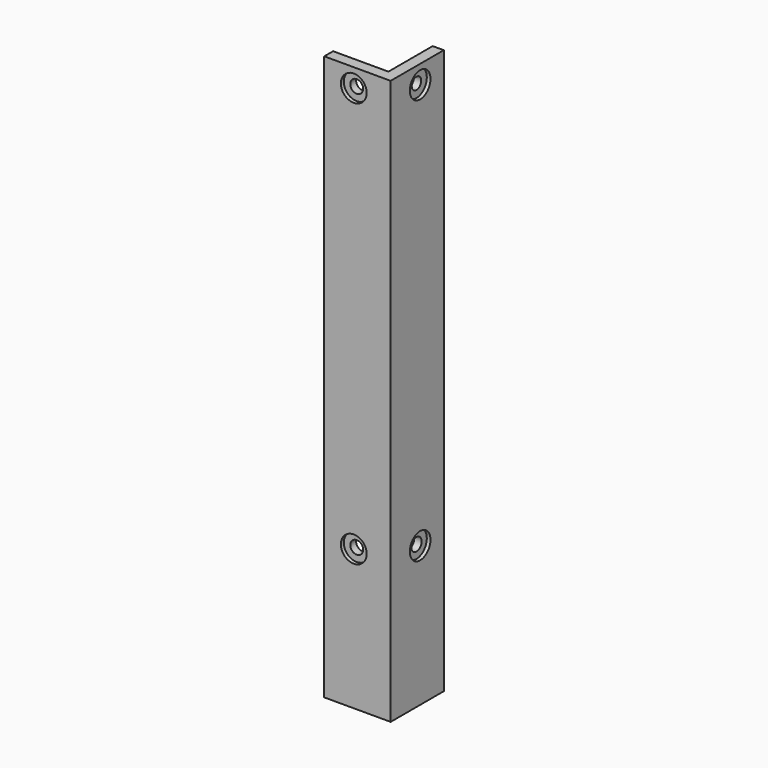
from build123d import *

# Parameters (mm, degrees)
PAD012_DEPTH            = 100
PAD015_DEPTH            = 10
SKETCH035_R             = 1.6
POCKET023_DEPTH         = 5
SKETCH036_R             = 3.5
POCKET019_DEPTH         = 1
SKETCH037_R             = 1.75
POCKET020_DEPTH         = 5
SKETCH038_R             = 3.5
POCKET021_DEPTH         = 1
PAD013_DEPTH            = 40
PAD014_DEPTH            = 3
SKETCH031_R             = 1.75
POCKET022_DEPTH         = 5
SKETCH042_R             = 3.5
POCKET026_DEPTH         = 1
SKETCH040_R             = 1.75
POCKET024_DEPTH         = 5
SKETCH041_R             = 3.5
POCKET025_DEPTH         = 1
BODY005_PLACEMENT_ANGLE = 90


with BuildPart() as part:
    # Sketch032 → Pad012 (new body)
    with BuildSketch(Plane.XY):
        Polygon((-53, -35), (-53, -53), (-35, -53), (-35, -48), (-48, -48), (-48, -35), align=None)
    extrude(amount=PAD012_DEPTH)

    # Sketch034 (on Face8 of Pad012) → Pad015 (join)
    with BuildSketch(Plane.XY.offset(100)):
        Polygon((-53, -35), (-53, -53), (-35, -53), (-35, -50), (-50, -50), (-50, -35), align=None)
    extrude(amount=PAD015_DEPTH)

    # Sketch035 (on Face14 of Pad015) → Pocket023 (cut)
    with BuildSketch(Plane.XZ.offset(53)):
        with Locations((-43, 105)):
            Circle(SKETCH035_R)
    extrude(amount=-POCKET023_DEPTH, mode=Mode.SUBTRACT)

    # Sketch036 (on Face14 of Pocket023) → Pocket019 (cut)
    with BuildSketch(Plane.XZ.offset(53)):
        with Locations((-43, 105)):
            Circle(SKETCH036_R)
    extrude(amount=-POCKET019_DEPTH, mode=Mode.SUBTRACT)

    # Sketch037 (on Face9 of Pocket019) → Pocket020 (cut)
    with BuildSketch(Plane(origin=(-53, 0, 0), x_dir=(0, -1, 0), z_dir=(-1, 0, 0))):
        with Locations((43, 105)):
            Circle(SKETCH037_R)
    extrude(amount=-POCKET020_DEPTH, mode=Mode.SUBTRACT)

    # Sketch038 (on Face9 of Pocket020) → Pocket021 (cut)
    with BuildSketch(Plane(origin=(-53, 0, 0), x_dir=(0, -1, 0), z_dir=(-1, 0, 0))):
        with Locations((43, 105)):
            Circle(SKETCH038_R)
    extrude(amount=-POCKET021_DEPTH, mode=Mode.SUBTRACT)

    # Sketch033 (on Face4 of Pocket021) → Pad013 (join)
    with BuildSketch(Plane(origin=(0, 0, 0), x_dir=(1, 0, 0), z_dir=(0, 0, -1))):
        Polygon((-35, 53), (-53, 53), (-53, 35), (-50, 35), (-50, 50), (-35, 50), align=None)
    extrude(amount=PAD013_DEPTH)

    # Sketch039 (on Face15 of Pad013) → Pad014 (join)
    with BuildSketch(Plane(origin=(0, 0, -40), x_dir=(1, 0, 0), z_dir=(0, 0, -1))):
        Polygon((-35, 50), (-35, 53), (-53, 53), (-53, 35), (-50, 35), align=None)
    extrude(amount=PAD014_DEPTH)

    # Sketch031 (on Face10 of Pad014) → Pocket022 (cut)
    with BuildSketch(Plane(origin=(-53, 0, 0), x_dir=(0, -1, 0), z_dir=(-1, 0, 0))):
        with Locations((43, -5)):
            Circle(SKETCH031_R)
    extrude(amount=-POCKET022_DEPTH, mode=Mode.SUBTRACT)

    # Sketch042 (on Face10 of Pocket022) → Pocket026 (cut)
    with BuildSketch(Plane(origin=(-53, 0, 0), x_dir=(0, -1, 0), z_dir=(-1, 0, 0))):
        with Locations((43, -5)):
            Circle(SKETCH042_R)
    extrude(amount=-POCKET026_DEPTH, mode=Mode.SUBTRACT)

    # Sketch040 (on Face19 of Pocket026) → Pocket024 (cut)
    with BuildSketch(Plane.XZ.offset(53)):
        with Locations((-43, -5)):
            Circle(SKETCH040_R)
    extrude(amount=-POCKET024_DEPTH, mode=Mode.SUBTRACT)

    # Sketch041 (on Face19 of Pocket024) → Pocket025 (cut)
    with BuildSketch(Plane.XZ.offset(53)):
        with Locations((-43, -5)):
            Circle(SKETCH041_R)
    extrude(amount=-POCKET025_DEPTH, mode=Mode.SUBTRACT)


with BuildPart() as part_1:
    # Body005 placement: moved
    add(part.part.rotate(Axis((0, 0, 0), (0, 0, 1)), BODY005_PLACEMENT_ANGLE))


solid = part_1.part
